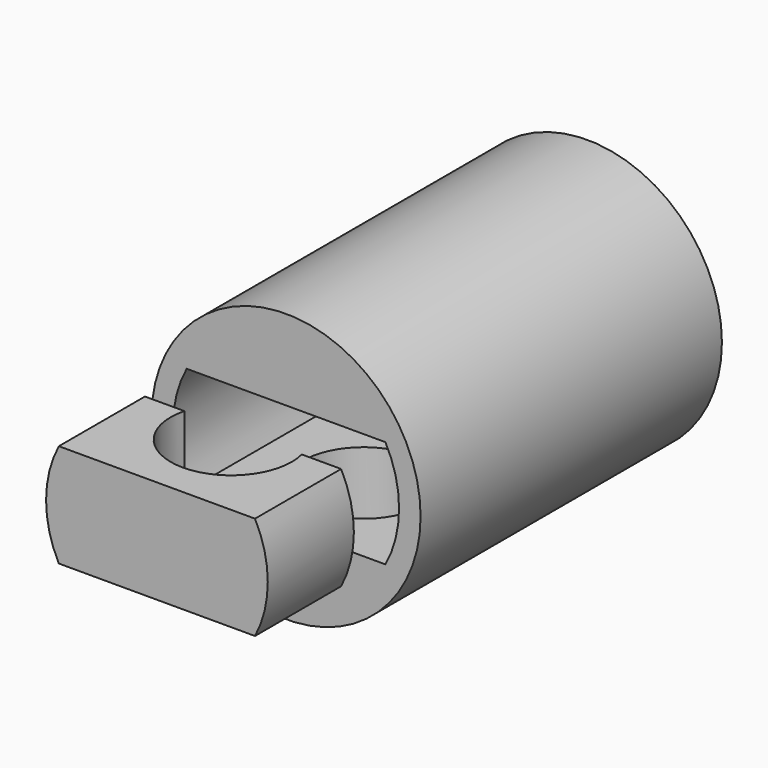
from build123d import *

# Parameters (mm, degrees)
F0_R     = 25
F1_DEPTH = 70
F2_R     = 11.25
F3_DEPTH = 25
F6_DEPTH = 20
F7_R     = 11.25
F8_DEPTH = 19.2


with BuildPart() as f1:
    # F0 (on Front) → F1 (new body)
    with BuildSketch(Plane.XZ):
        Circle(F0_R)
        with BuildLine():
            ThreePointArc((-18.466185, -10), (-21, 0), (-18.466185, 10))
            Line((-18.466185, 10), (18.466185, 10))
            ThreePointArc((18.466185, 10), (21, 0), (18.466185, -10))
            Line((18.466185, -10), (-18.466185, -10))
        make_face(mode=Mode.SUBTRACT)
    extrude(amount=F1_DEPTH)

    # F2 (on Top) → F3 (cut)
    with BuildSketch(Plane.XY):
        with Locations((0, -52)):
            Circle(F2_R)
    extrude(amount=-F3_DEPTH, mode=Mode.SUBTRACT)


with BuildPart() as f6:
    # F5 (on offset) → F6 (new body)
    with BuildSketch(Plane.XZ.offset(80)):
        with BuildLine():
            Line((18.226355, 9.6), (-18.226355, 9.6))
            ThreePointArc((-18.226355, 9.6), (-20.6, 0), (-18.226355, -9.6))
            Line((-18.226355, -9.6), (18.226355, -9.6))
            ThreePointArc((18.226355, -9.6), (20.6, 0), (18.226355, 9.6))
        make_face()
    extrude(amount=F6_DEPTH)

    # F7 (on face) → F8 (cut, through all)
    with BuildSketch(Plane(origin=(0, 0, -9.6), x_dir=(1, 0, 0), z_dir=(0, 0, -1))):
        with Locations((0, 82.75)):
            Circle(F7_R)
    extrude(amount=-F8_DEPTH, mode=Mode.SUBTRACT)


solid = Compound([f1.part, f6.part])
